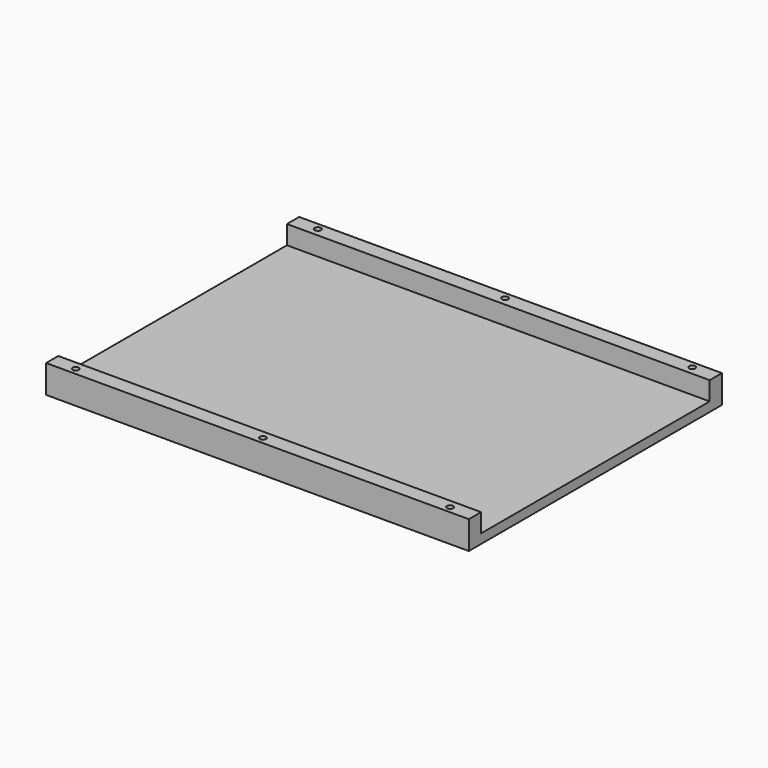
from build123d import *

# Parameters (mm, degrees)
F0_W     = 135.5
F0_H     = 101.4
F1_DEPTH = 3
F2_W     = 135.5
F2_H     = 4.9
F3_DEPTH = 6
F4_DEPTH = 6
F6_D     = 2
F6_DEPTH = 5
F6_TIP   = 0.600860619


with BuildPart() as f1:
    # F0 (on Top) → F1 (new body)
    with BuildSketch(Plane.XY):
        with Locations((-1.68951042, 21.3235962429)):
            Rectangle(F0_W, F0_H)
    extrude(amount=F1_DEPTH)

    # F2 (on face) → F3 (join)
    with BuildSketch(Plane.XY.offset(3)):
        with Locations((-1.68951042, -26.9264037571)):
            Rectangle(F2_W, F2_H)
    extrude(amount=F3_DEPTH)

    # F2 (on face) → F4 (join)
    with BuildSketch(Plane.XY.offset(3)):
        with Locations((-1.68951042, -26.9264037571)):
            Rectangle(F2_W, F2_H)
        with Locations((-1.68951042, 69.5735962429)):
            Rectangle(F2_W, F2_H)
    extrude(amount=F4_DEPTH)

    # F6
    with Locations(Plane.XY.offset(9)):
        with Locations((-61.68951042, 69.8235962429), (-1.68951042, 69.8235962429), (58.31048958, 69.8235962429), (58.31048958, -27.1764037571), (-1.68951042, -27.1764037571), (-61.68951042, -27.1764037571)):
            Hole(F6_D / 2, depth=F6_DEPTH)
            with Locations((0, 0, -(F6_DEPTH + F6_TIP / 2))):  # 118° drill point
                Cone(0, F6_D / 2, F6_TIP, mode=Mode.SUBTRACT)


solid = f1.part
